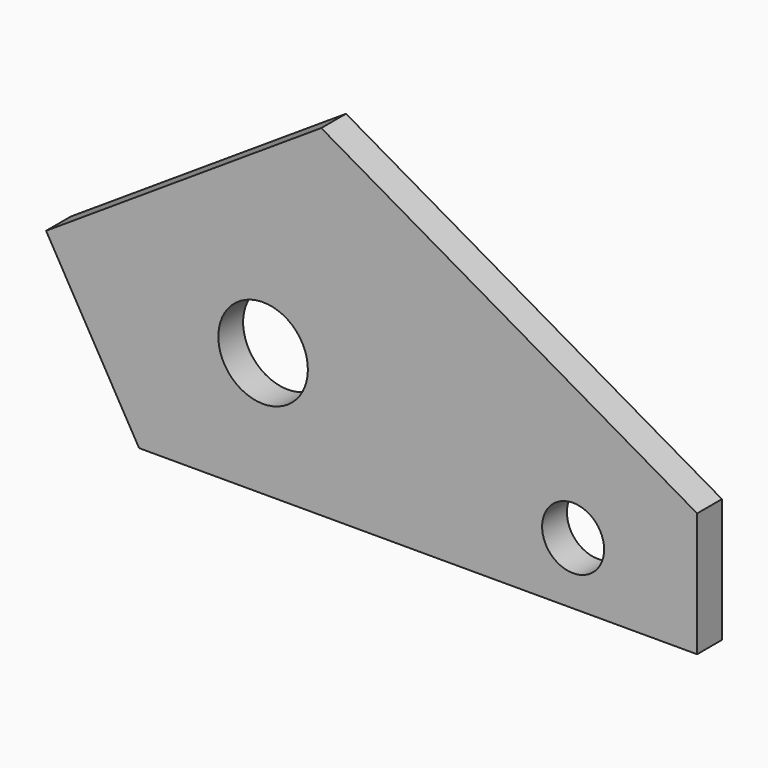
from build123d import *

# Parameters (mm, degrees)
F0_R     = 9.171413
F0_R_2   = 6.35
F1_DEPTH = 6.35


with BuildPart() as f1:
    # F0 (on Front) → F1 (new body)
    with BuildSketch(Plane.XZ):
        Polygon((-107.95, 30.468729), (-88.9, -2.526838), (25.4, -2.526838), (25.4, 22.873162), (-51.589658, 67.323162), align=None)
        with Locations((-63.5, 22.873162)):
            Circle(F0_R, mode=Mode.SUBTRACT)
        with Locations((0, 10.173162)):
            Circle(F0_R_2, mode=Mode.SUBTRACT)
        Polygon((-107.95, 30.468729), (-88.9, -2.526838), (25.4, -2.526838), (25.4, 22.873162), (-51.589658, 67.323162), align=None)
        with Locations((-63.5, 22.873162)):
            Circle(F0_R, mode=Mode.SUBTRACT)
        with Locations((0, 10.173162)):
            Circle(F0_R_2, mode=Mode.SUBTRACT)
    extrude(amount=F1_DEPTH)


solid = f1.part
